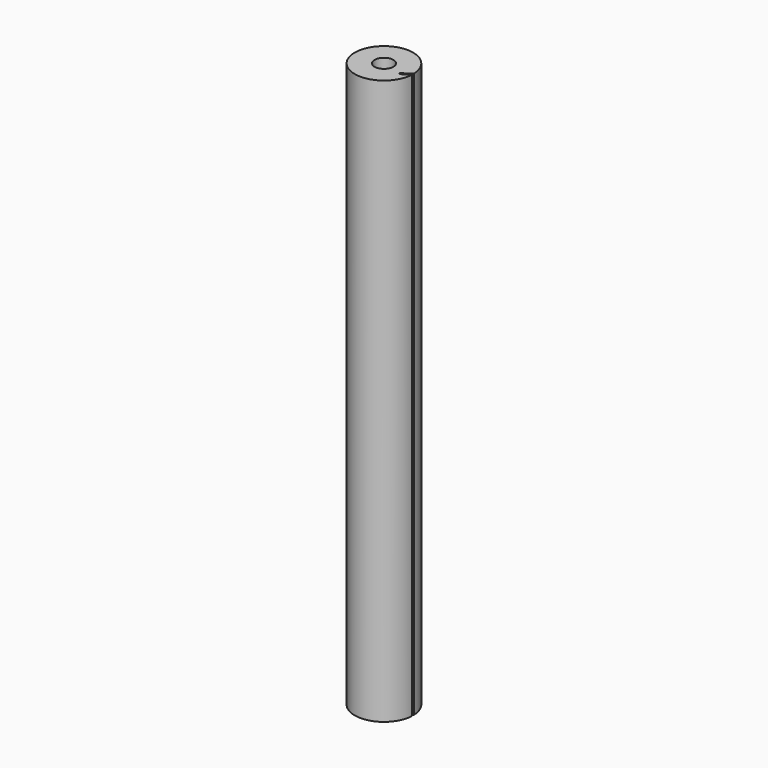
from build123d import *

# Parameters (mm, degrees)
F1_DEPTH = 150
F2_R     = 2.5
F3_DEPTH = 5
F4_W     = 5
F4_H     = 5
F5_DEPTH = 5


with BuildPart() as f1:
    # F0 (on Top) → F1 (new body)
    with BuildSketch(Plane.XY):
        with BuildLine():
            Line((5.272375, -1.385031), (7.745967, 0.25))
            ThreePointArc((7.745967, 0.25), (-7.749832, 0.051027), (7.742003, -0.351977))
            Line((7.742003, -0.351977), (5.548085, -1.802145))
            Line((5.548085, -1.802145), (5.272375, -1.385031))
        make_face()
    extrude(amount=F1_DEPTH)

    # F2 (on face) → F3 (cut)
    with BuildSketch(Plane.XY.offset(150)):
        Circle(F2_R)
    extrude(amount=-F3_DEPTH, mode=Mode.SUBTRACT)

    # F4 (on face) → F5 (cut)
    with BuildSketch(Plane(origin=(0, 0, 0), x_dir=(1, 0, 0), z_dir=(0, 0, -1))):
        Rectangle(F4_W, F4_H)
    extrude(amount=-F5_DEPTH, mode=Mode.SUBTRACT)


solid = f1.part
